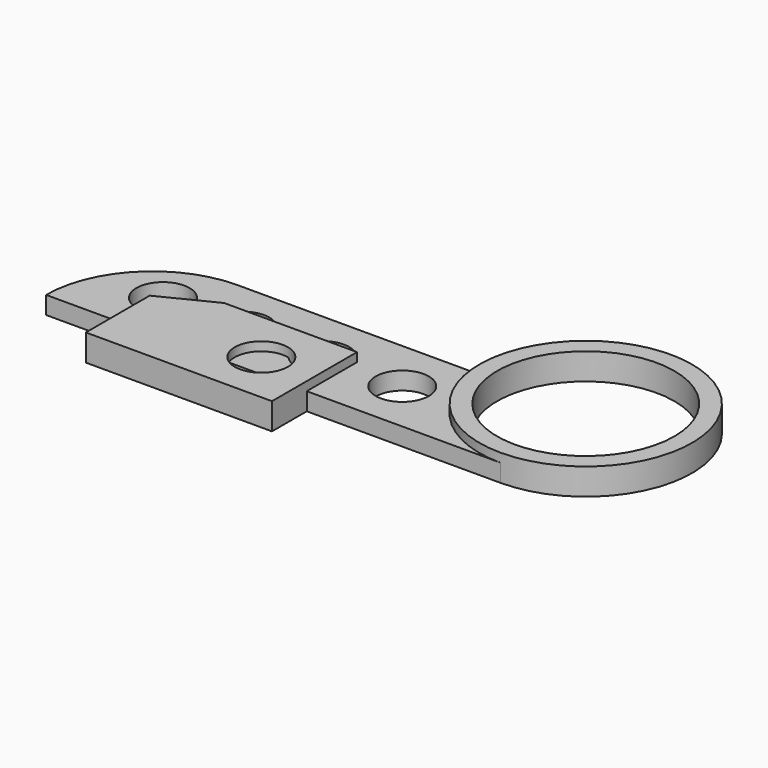
from build123d import *

# Parameters (mm, degrees)
F1_R     = 50
F2_DEPTH = 15
F1_R_2   = 15
F3_DEPTH = 10
F4_R     = 15
F5_DEPTH = 15


with BuildPart() as f2:
    # F1 (on Top) → F2 (new body)
    with BuildSketch(Plane.XY):
        with BuildLine():
            ThreePointArc((216.9962952295, 48.0441849954), (156.9962952295, 108.0441849954), (96.9962952295, 48.0441849954))
            ThreePointArc((96.9962952295, 48.0441849954), (114.5698883583, 5.6177781242), (156.9962952295, -11.9558150046))
            ThreePointArc((156.9962952295, -11.9558150046), (199.4227021007, 5.6177781242), (216.9962952295, 48.0441849954))
        make_face()
        with Locations((156.9962952295, 48.0441849954)):
            Circle(F1_R, mode=Mode.SUBTRACT)
    extrude(amount=F2_DEPTH)

    # F1 (on Top) → F3 (join)
    with BuildSketch(Plane.XY):
        with BuildLine():
            ThreePointArc((156.9962952295, -11.9558150046), (114.5698883583, 5.6177781242), (96.9962952295, 48.0441849954))
            Line((96.9962952295, 48.0441849954), (-39.5058169961, 48.0441849954))
            ThreePointArc((-39.5058169961, 48.0441849954), (-81.9322238673, 30.4705918666), (-99.5058169961, -11.9558150046))
            Line((-99.5058169961, -11.9558150046), (-39.5058169961, -11.9558150046))
            Line((-39.5058169961, -11.9558150046), (156.9962952295, -11.9558150046))
        make_face()
        with Locations((-57.5335733734, 18.0441849954)):
            Circle(F1_R_2, mode=Mode.SUBTRACT)
        with Locations((-12.5335733734, 18.0441849954)):
            Circle(F1_R_2, mode=Mode.SUBTRACT)
        with Locations((32.4664266266, 18.0441849954)):
            Circle(F1_R_2, mode=Mode.SUBTRACT)
        with Locations((77.4664266266, 18.0441849954)):
            Circle(F1_R_2, mode=Mode.SUBTRACT)
    extrude(amount=F3_DEPTH)


with BuildPart() as f5:
    # F4 (on Top) → F5 (new body)
    with BuildSketch(Plane.XY):
        Polygon((47.5767727465, 23.5059403683), (-27.4232272535, 23.5059403683), (-57.4232272535, 8.5059403683), (-57.4232272535, -36.4940596317), (47.5767727465, -36.4940596317), align=None)
        with Locations((17.5767727465, -6.4940596317)):
            Circle(F4_R, mode=Mode.SUBTRACT)
    extrude(amount=F5_DEPTH)


solid = Compound([f2.part, f5.part])
